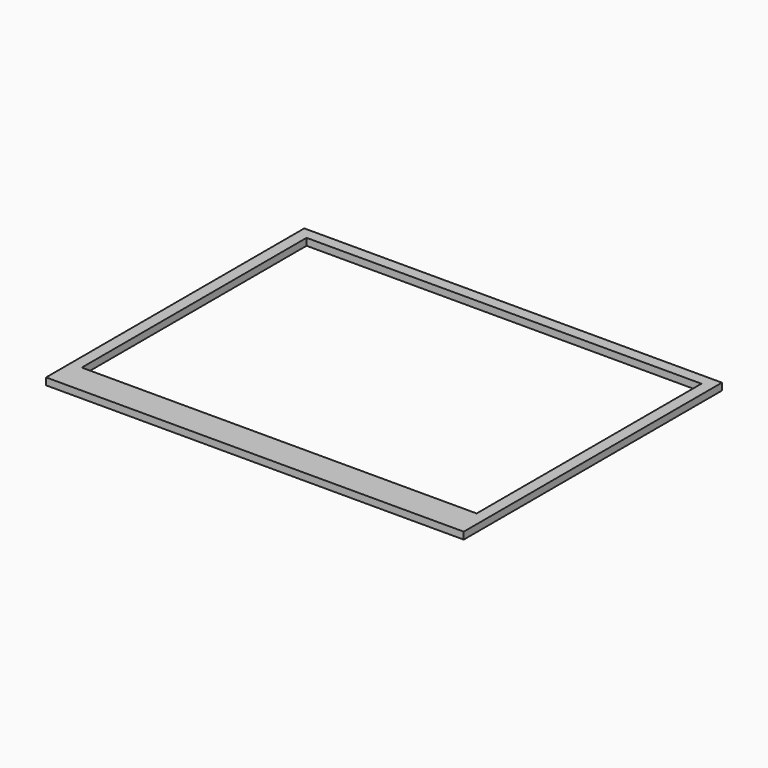
from build123d import *

# Parameters (mm, degrees)
SKETCH_W       = 220
SKETCH_H       = 160
PAD_DEPTH      = 3.7
SKETCH001_W    = 208
SKETCH001_H    = 148
POCKET_DEPTH   = 3.701
POCKET_FACE6_W = 220
POCKET_FACE6_H = 3.7
PAD001_DEPTH   = 10


with BuildPart() as part:
    # Sketch → Pad (new body)
    with BuildSketch(Plane.XY):
        Rectangle(SKETCH_W, SKETCH_H)
    extrude(amount=PAD_DEPTH)

    # Sketch001 (on Face6 of Pad) → Pocket (cut, through all)
    with BuildSketch(Plane.XY.offset(3.7)):
        Rectangle(SKETCH001_W, SKETCH001_H)
    extrude(amount=-POCKET_DEPTH, mode=Mode.SUBTRACT)

    # Pocket Face6 → Pad001 (add)
    with BuildSketch(Plane(origin=(0, -80, 1.85), x_dir=(-1, 0, 0), z_dir=(0, -1, 0))):
        Rectangle(POCKET_FACE6_W, POCKET_FACE6_H)
    extrude(amount=PAD001_DEPTH)


solid = part.part
